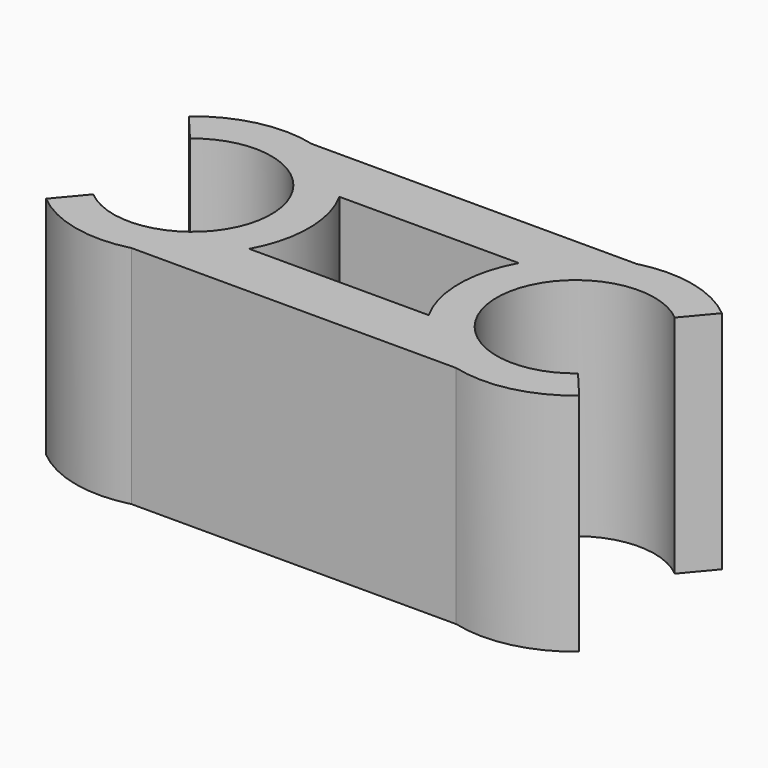
from build123d import *

# Parameters (mm, degrees)
F1_DEPTH = 6


with BuildPart() as f1:
    # F0 (on Top) → F1 (new body)
    with BuildSketch(Plane.XY):
        with BuildLine():
            ThreePointArc((-6.449854, 1.608693), (-3, 0), (-6.449854, -1.608693))
            Line((-6.449854, -1.608693), (-7.092642, -2.374738))
            ThreePointArc((-7.092642, -2.374738), (-5.78172, -3.024113), (-4.318975, -3))
            ThreePointArc((-4.318975, -3), (-3.198834, -2.448585), (-2.387068, -1.5))
            ThreePointArc((-2.387068, -1.5), (-2, 0), (-2.387068, 1.5))
            ThreePointArc((-2.387068, 1.5), (-3.198834, 2.448585), (-4.318975, 3))
            ThreePointArc((-4.318975, 3), (-5.78172, 3.024113), (-7.092642, 2.374738))
            Line((-7.092642, 2.374738), (-6.449854, 1.608693))
        make_face()
        with BuildLine():
            Line((4.318975, 3), (-4.318975, 3))
            ThreePointArc((-4.318975, 3), (-3.198834, 2.448585), (-2.387068, 1.5))
            Line((-2.387068, 1.5), (2.387068, 1.5))
            ThreePointArc((2.387068, 1.5), (3.198834, 2.448585), (4.318975, 3))
        make_face()
        with BuildLine():
            ThreePointArc((2.387068, -1.5), (3.198834, -2.448585), (4.318975, -3))
            ThreePointArc((4.318975, -3), (5.78172, -3.024113), (7.092642, -2.374738))
            Line((7.092642, -2.374738), (6.449854, -1.608693))
            ThreePointArc((6.449854, -1.608693), (3, 0), (6.449854, 1.608693))
            Line((6.449854, 1.608693), (7.092642, 2.374738))
            ThreePointArc((7.092642, 2.374738), (5.78172, 3.024113), (4.318975, 3))
            ThreePointArc((4.318975, 3), (3.198834, 2.448585), (2.387068, 1.5))
            ThreePointArc((2.387068, 1.5), (2, 0), (2.387068, -1.5))
        make_face()
        with BuildLine():
            ThreePointArc((-2.387068, -1.5), (-3.198834, -2.448585), (-4.318975, -3))
            Line((-4.318975, -3), (4.318975, -3))
            ThreePointArc((4.318975, -3), (3.198834, -2.448585), (2.387068, -1.5))
            Line((2.387068, -1.5), (-2.387068, -1.5))
        make_face()
    extrude(amount=F1_DEPTH)


solid = f1.part
